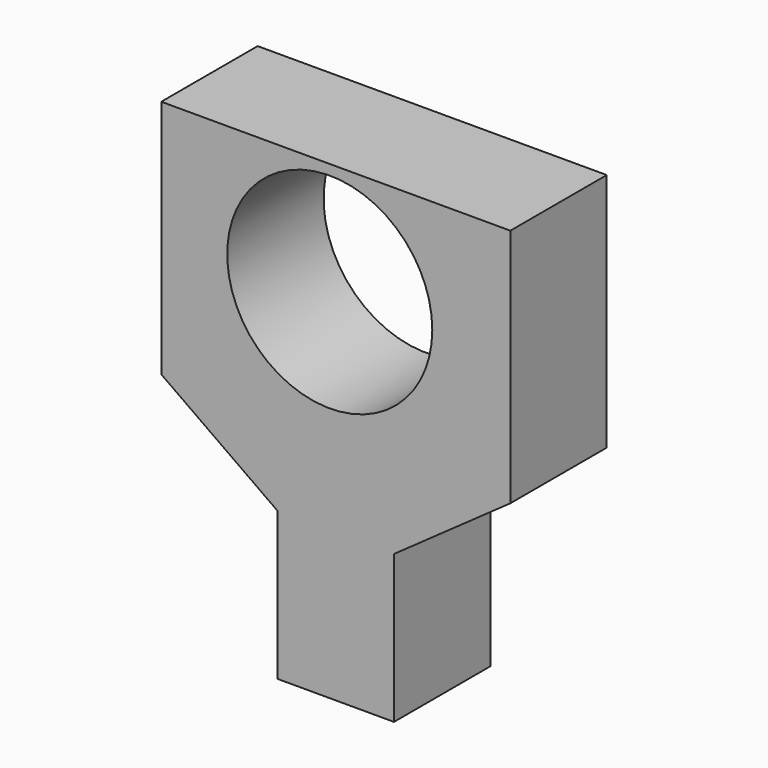
from build123d import *

# Parameters (mm, degrees)
F0_R     = 21.614199
F1_DEPTH = 25.4


with BuildPart() as f1:
    # F0 (on Front) → F1 (new body)
    with BuildSketch(Plane.XZ):
        Polygon((-35.520531, 23.765538), (-35.520531, 0), (-35.520531, -26.832053), (-10.988366, -44.209), (-10.988366, -75.385295), (13.543796, -75.385295), (13.543796, -44.209), (38.075965, -26.832053), (38.075965, 0), (38.075965, 23.765538), align=None)
        Circle(F0_R, mode=Mode.SUBTRACT)
    extrude(amount=F1_DEPTH)


solid = f1.part
